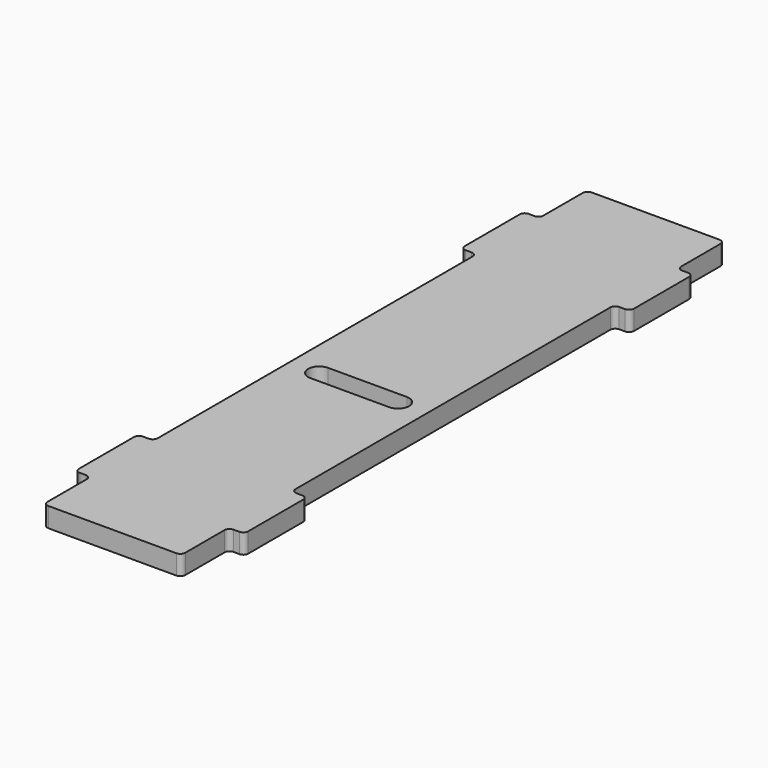
from build123d import *

# Parameters (mm, degrees)
F1_DEPTH = 6.35


with BuildPart() as f1:
    # F0 (on Top) → F1 (new body)
    with BuildSketch(Plane.XY):
        with BuildLine():
            ThreePointArc((0, 1.6002), (0.468688, 0.468688), (1.6002, 0))
            Line((1.6002, 0), (42.8498, 0))
            ThreePointArc((42.8498, 0), (43.981312, 0.468688), (44.45, 1.6002))
            Line((44.45, 1.6002), (44.45, 17.4498))
            ThreePointArc((44.45, 17.4498), (44.918688, 18.581312), (46.0502, 19.05))
            Line((46.0502, 19.05), (47.9298, 19.05))
            ThreePointArc((47.9298, 19.05), (49.061312, 19.518688), (49.53, 20.6502))
            Line((49.53, 20.6502), (49.53, 42.8498))
            ThreePointArc((49.53, 42.8498), (49.061312, 43.981312), (47.9298, 44.45))
            Line((47.9298, 44.45), (46.0502, 44.45))
            ThreePointArc((46.0502, 44.45), (44.918688, 44.918688), (44.45, 46.0502))
            Line((44.45, 46.0502), (44.45, 172.9994))
            ThreePointArc((44.45, 172.9994), (44.918688, 174.130912), (46.0502, 174.5996))
            Line((46.0502, 174.5996), (47.9298, 174.5996))
            ThreePointArc((47.9298, 174.5996), (49.061312, 175.068288), (49.53, 176.1998))
            Line((49.53, 176.1998), (49.53, 198.3994))
            ThreePointArc((49.53, 198.3994), (49.061312, 199.530912), (47.9298, 199.9996))
            Line((47.9298, 199.9996), (46.0502, 199.9996))
            ThreePointArc((46.0502, 199.9996), (44.918688, 200.468288), (44.45, 201.5998))
            Line((44.45, 201.5998), (44.45, 217.4494))
            ThreePointArc((44.45, 217.4494), (43.981312, 218.580912), (42.8498, 219.0496))
            Line((42.8498, 219.0496), (1.6002, 219.0496))
            ThreePointArc((1.6002, 219.0496), (0.468688, 218.580912), (0, 217.4494))
            Line((0, 217.4494), (0, 201.5998))
            ThreePointArc((0, 201.5998), (-0.468688, 200.468288), (-1.6002, 199.9996))
            Line((-1.6002, 199.9996), (-3.4798, 199.9996))
            ThreePointArc((-3.4798, 199.9996), (-4.611312, 199.530912), (-5.08, 198.3994))
            Line((-5.08, 198.3994), (-5.08, 176.1998))
            ThreePointArc((-5.08, 176.1998), (-4.611312, 175.068288), (-3.4798, 174.5996))
            Line((-3.4798, 174.5996), (-1.6002, 174.5996))
            ThreePointArc((-1.6002, 174.5996), (-0.468688, 174.130912), (0, 172.9994))
            Line((0, 172.9994), (0, 46.0502))
            ThreePointArc((0, 46.0502), (-0.468688, 44.918688), (-1.6002, 44.45))
            Line((-1.6002, 44.45), (-3.4798, 44.45))
            ThreePointArc((-3.4798, 44.45), (-4.611312, 43.981312), (-5.08, 42.8498))
            Line((-5.08, 42.8498), (-5.08, 20.6502))
            ThreePointArc((-5.08, 20.6502), (-4.611312, 19.518688), (-3.4798, 19.05))
            Line((-3.4798, 19.05), (-1.6002, 19.05))
            ThreePointArc((-1.6002, 19.05), (-0.468688, 18.581312), (0, 17.4498))
            Line((0, 17.4498), (0, 1.6002))
        make_face()
        with BuildLine():
            ThreePointArc((9.525, 95.7072), (5.9563, 99.2759), (9.525, 102.8446))
            Line((9.525, 102.8446), (34.925, 102.8446))
            ThreePointArc((34.925, 102.8446), (37.448452, 101.799352), (38.4937, 99.2759))
            ThreePointArc((38.4937, 99.2759), (37.448452, 96.752448), (34.925, 95.7072))
            Line((34.925, 95.7072), (9.525, 95.7072))
        make_face(mode=Mode.SUBTRACT)
    extrude(amount=F1_DEPTH)


solid = f1.part
